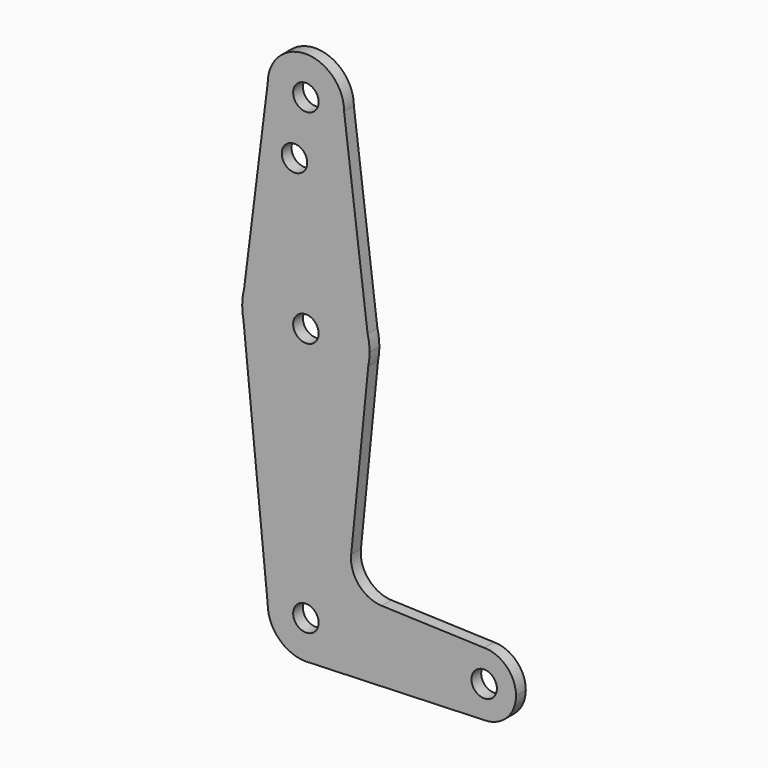
from build123d import *

# Parameters (mm, degrees)
F0_R     = 3.175
F1_DEPTH = 3.048


with BuildPart() as f1:
    # F0 (on Front) → F1 (new body)
    with BuildSketch(Plane.XZ):
        with BuildLine():
            ThreePointArc((-65.881865, 62.072403), (-56.356865, 52.547403), (-46.831865, 62.072403))
            ThreePointArc((-46.831865, 62.072403), (-56.356865, 71.597403), (-65.881865, 62.072403))
        make_face()
        with Locations((-56.356865, 62.072403)):
            Circle(F0_R, mode=Mode.SUBTRACT)
        with BuildLine():
            Line((-40.970327, 15.180095), (-46.831865, 62.072403))
            ThreePointArc((-46.831865, 62.072403), (-56.356865, 52.547403), (-65.881865, 62.072403))
            Line((-65.881865, 62.072403), (-71.743404, 15.180095))
            ThreePointArc((-71.743404, 15.180095), (-56.356865, 27.147403), (-40.970327, 15.180095))
        make_face()
        with Locations((-59.202931, 47.796122)):
            Circle(F0_R, mode=Mode.SUBTRACT)
        with Locations((-56.356865, 11.272403)):
            Circle(F0_R)
        with BuildLine():
            Line((-40.481865, 11.272403), (-40.970327, 15.180095))
            ThreePointArc((-40.970327, 15.180095), (-56.356865, 27.147403), (-71.743404, 15.180095))
            Line((-71.743404, 15.180095), (-72.231865, 11.272403))
            Line((-72.231865, 11.272403), (-71.917509, 8.128839))
            ThreePointArc((-71.917509, 8.128839), (-56.356865, -4.602597), (-40.796222, 8.128839))
            Line((-40.796222, 8.128839), (-40.481865, 11.272403))
        make_face()
        with Locations((-56.356865, 11.272403)):
            Circle(F0_R, mode=Mode.SUBTRACT)
        with BuildLine():
            ThreePointArc((-40.481865, 11.272403), (-40.604454, 13.241454), (-40.970327, 15.180095))
            Line((-40.970327, 15.180095), (-40.481865, 11.272403))
        make_face()
        with BuildLine():
            Line((-72.231865, 11.272403), (-71.743404, 15.180095))
            ThreePointArc((-71.743404, 15.180095), (-72.109277, 13.241454), (-72.231865, 11.272403))
        make_face()
        with BuildLine():
            ThreePointArc((-40.796222, 8.128839), (-40.56065, 9.692781), (-40.481865, 11.272403))
            Line((-40.481865, 11.272403), (-40.796222, 8.128839))
        make_face()
        with BuildLine():
            Line((-71.917509, 8.128839), (-72.231865, 11.272403))
            ThreePointArc((-72.231865, 11.272403), (-72.153081, 9.692781), (-71.917509, 8.128839))
        make_face()
        with BuildLine():
            Line((-45.073282, -34.641766), (-40.796222, 8.128839))
            ThreePointArc((-40.796222, 8.128839), (-56.356865, -4.602597), (-71.917509, 8.128839))
            Line((-71.917509, 8.128839), (-65.881865, -52.227597))
            ThreePointArc((-65.881865, -52.227597), (-63.092058, -45.492405), (-56.356865, -42.702597))
            ThreePointArc((-56.356865, -42.702597), (-49.621673, -45.492405), (-46.831865, -52.227597))
            ThreePointArc((-46.831865, -52.227597), (-49.385575, -58.718108), (-55.677375, -61.728329))
            Line((-55.677375, -61.728329), (-11.906865, -60.165097))
            ThreePointArc((-11.906865, -60.165097), (-19.844365, -52.227597), (-11.906865, -44.290097))
            Line((-11.906865, -44.290097), (-37.446292, -43.377975))
            ThreePointArc((-37.446292, -43.377975), (-43.15151, -40.661405), (-45.073282, -34.641766))
        make_face()
        with BuildLine():
            ThreePointArc((-53.181865, -52.227597), (-54.111801, -49.982533), (-56.356865, -49.052597))
            ThreePointArc((-56.356865, -49.052597), (-58.60193, -54.472661), (-53.181865, -52.227597))
        make_face()
        with BuildLine():
            ThreePointArc((-56.356865, -42.702597), (-63.092058, -45.492405), (-65.881865, -52.227597))
            ThreePointArc((-65.881865, -52.227597), (-63.092058, -58.962789), (-56.356865, -61.752597))
            Line((-56.356865, -61.752597), (-55.677375, -61.728329))
            ThreePointArc((-55.677375, -61.728329), (-49.385575, -58.718108), (-46.831865, -52.227597))
            ThreePointArc((-46.831865, -52.227597), (-49.621673, -45.492405), (-56.356865, -42.702597))
        make_face()
        with BuildLine():
            ThreePointArc((-53.181865, -52.227597), (-58.60193, -54.472661), (-56.356865, -49.052597))
            ThreePointArc((-56.356865, -49.052597), (-54.111801, -49.982533), (-53.181865, -52.227597))
        make_face(mode=Mode.SUBTRACT)
        with BuildLine():
            Line((-55.677375, -61.728329), (-56.356865, -61.752597))
            ThreePointArc((-56.356865, -61.752597), (-56.016904, -61.746528), (-55.677375, -61.728329))
        make_face()
        with BuildLine():
            ThreePointArc((-3.969365, -52.227597), (-6.294205, -46.614937), (-11.906865, -44.290097))
            ThreePointArc((-11.906865, -44.290097), (-19.844365, -52.227597), (-11.906865, -60.165097))
            ThreePointArc((-11.906865, -60.165097), (-6.294205, -57.840257), (-3.969365, -52.227597))
        make_face()
        with Locations((-11.906865, -52.227597)):
            Circle(F0_R, mode=Mode.SUBTRACT)
    extrude(amount=F1_DEPTH)


solid = f1.part
